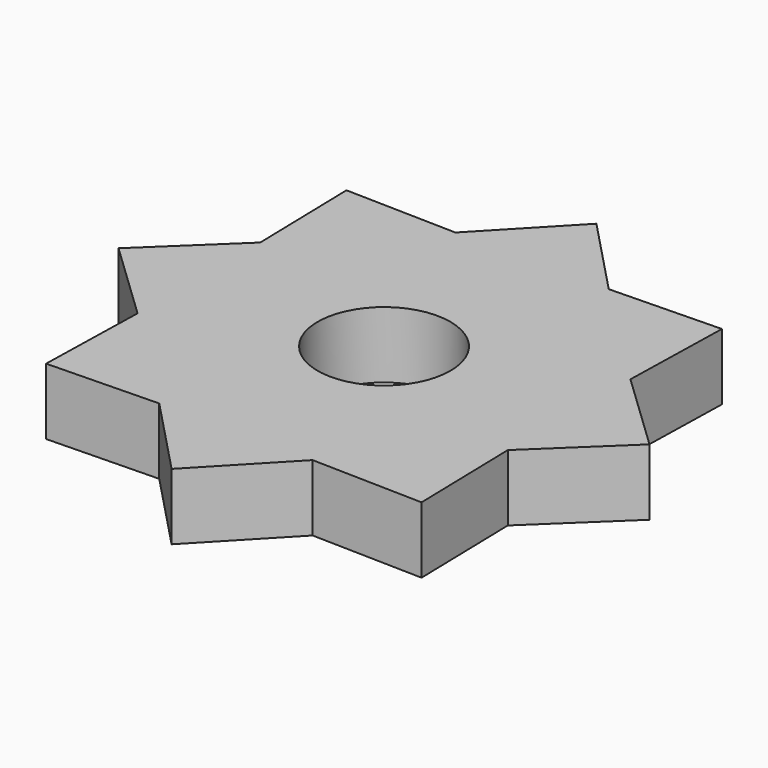
from build123d import *

# Parameters (mm, degrees)
F1_DEPTH = 5
F2_R     = 5
F3_DEPTH = 25


with BuildPart() as f1:
    # F0 (on Top) → F1 (new body)
    with BuildSketch(Plane.XY):
        with BuildLine():
            ThreePointArc((13.93824703, 5.5430379513), (14.7321706726, 2.8219049018), (15, 0))
            ThreePointArc((15, 0), (14.7321706726, -2.8219049018), (13.93824703, -5.5430379513))
            Line((13.93824703, -5.5430379513), (13.9437634587, -5.7756959351))
            Line((13.9437634587, -5.7756959351), (20, 0))
            Line((20, 0), (13.9437634587, 5.7756959351))
            Line((13.9437634587, 5.7756959351), (13.93824703, 5.5430379513))
        make_face()
        with BuildLine():
            ThreePointArc((13.7753487165, 5.9363092691), (13.8581929877, 5.7402514855), (13.93824703, 5.5430379513))
            Line((13.93824703, 5.5430379513), (13.9437634587, 5.7756959351))
            Line((13.9437634587, 5.7756959351), (13.7753487165, 5.9363092691))
        make_face()
        with BuildLine():
            Line((13.9437634587, -5.7756959351), (13.93824703, -5.5430379513))
            ThreePointArc((13.93824703, -5.5430379513), (13.8581929877, -5.7402514855), (13.7753487165, -5.9363092691))
            Line((13.7753487165, -5.9363092691), (13.9437634587, -5.7756959351))
        make_face()
        with BuildLine():
            ThreePointArc((5.9363092691, 13.7753487165), (10.6066017178, 10.6066017178), (13.7753487165, 5.9363092691))
            Line((13.7753487165, 5.9363092691), (13.9437634587, 5.7756959351))
            Line((13.9437634587, 5.7756959351), (14.1421356237, 14.1421356237))
            Line((14.1421356237, 14.1421356237), (5.7756959351, 13.9437634587))
            Line((5.7756959351, 13.9437634587), (5.9363092691, 13.7753487165))
        make_face()
        with BuildLine():
            Line((13.9437634587, -5.7756959351), (13.7753487165, -5.9363092691))
            ThreePointArc((13.7753487165, -5.9363092691), (10.6066017178, -10.6066017178), (5.9363092691, -13.7753487165))
            Line((5.9363092691, -13.7753487165), (5.7756959351, -13.9437634587))
            Line((5.7756959351, -13.9437634587), (14.1421356237, -14.1421356237))
            Line((14.1421356237, -14.1421356237), (13.9437634587, -5.7756959351))
        make_face()
        with BuildLine():
            ThreePointArc((5.5430379513, 13.93824703), (5.7402514855, 13.8581929877), (5.9363092691, 13.7753487165))
            Line((5.9363092691, 13.7753487165), (5.7756959351, 13.9437634587))
            Line((5.7756959351, 13.9437634587), (5.5430379513, 13.93824703))
        make_face()
        with BuildLine():
            Line((5.7756959351, -13.9437634587), (5.9363092691, -13.7753487165))
            ThreePointArc((5.9363092691, -13.7753487165), (5.7402514855, -13.8581929877), (5.5430379513, -13.93824703))
            Line((5.5430379513, -13.93824703), (5.7756959351, -13.9437634587))
        make_face()
        with BuildLine():
            ThreePointArc((0, 15), (2.8219049018, 14.7321706726), (5.5430379513, 13.93824703))
            Line((5.5430379513, 13.93824703), (5.7756959351, 13.9437634587))
            Line((5.7756959351, 13.9437634587), (0, 20))
            Line((0, 20), (0, 15))
        make_face()
        with BuildLine():
            Line((5.7756959351, -13.9437634587), (5.5430379513, -13.93824703))
            ThreePointArc((5.5430379513, -13.93824703), (0, -15), (-5.5430379513, -13.93824703))
            Line((-5.5430379513, -13.93824703), (-5.7756959351, -13.9437634587))
            Line((-5.7756959351, -13.9437634587), (0, -20))
            Line((0, -20), (5.7756959351, -13.9437634587))
        make_face()
        with BuildLine():
            ThreePointArc((-5.5430379513, 13.93824703), (-2.8219049018, 14.7321706726), (0, 15))
            Line((0, 15), (0, 20))
            Line((0, 20), (-5.7756959351, 13.9437634587))
            Line((-5.7756959351, 13.9437634587), (-5.5430379513, 13.93824703))
        make_face()
        with BuildLine():
            Line((-5.7756959351, -13.9437634587), (-5.5430379513, -13.93824703))
            ThreePointArc((-5.5430379513, -13.93824703), (-5.7402514855, -13.8581929877), (-5.9363092691, -13.7753487165))
            Line((-5.9363092691, -13.7753487165), (-5.7756959351, -13.9437634587))
        make_face()
        with BuildLine():
            ThreePointArc((-5.9363092691, 13.7753487165), (-5.7402514855, 13.8581929877), (-5.5430379513, 13.93824703))
            Line((-5.5430379513, 13.93824703), (-5.7756959351, 13.9437634587))
            Line((-5.7756959351, 13.9437634587), (-5.9363092691, 13.7753487165))
        make_face()
        with BuildLine():
            Line((-5.9363092691, 13.7753487165), (-5.7756959351, 13.9437634587))
            Line((-5.7756959351, 13.9437634587), (-14.1421356237, 14.1421356237))
            Line((-14.1421356237, 14.1421356237), (-13.9437634587, 5.7756959351))
            Line((-13.9437634587, 5.7756959351), (-13.7753487165, 5.9363092691))
            ThreePointArc((-13.7753487165, 5.9363092691), (-10.6066017178, 10.6066017178), (-5.9363092691, 13.7753487165))
        make_face()
        with BuildLine():
            Line((-5.7756959351, -13.9437634587), (-5.9363092691, -13.7753487165))
            ThreePointArc((-5.9363092691, -13.7753487165), (-10.6066017178, -10.6066017178), (-13.7753487165, -5.9363092691))
            Line((-13.7753487165, -5.9363092691), (-13.9437634587, -5.7756959351))
            Line((-13.9437634587, -5.7756959351), (-14.1421356237, -14.1421356237))
            Line((-14.1421356237, -14.1421356237), (-5.7756959351, -13.9437634587))
        make_face()
        with BuildLine():
            Line((-13.9437634587, -5.7756959351), (-13.7753487165, -5.9363092691))
            ThreePointArc((-13.7753487165, -5.9363092691), (-13.8581929877, -5.7402514855), (-13.93824703, -5.5430379513))
            Line((-13.93824703, -5.5430379513), (-13.9437634587, -5.7756959351))
        make_face()
        with BuildLine():
            ThreePointArc((-13.93824703, 5.5430379513), (-13.8581929877, 5.7402514855), (-13.7753487165, 5.9363092691))
            Line((-13.7753487165, 5.9363092691), (-13.9437634587, 5.7756959351))
            Line((-13.9437634587, 5.7756959351), (-13.93824703, 5.5430379513))
        make_face()
        with BuildLine():
            Line((-13.93824703, 5.5430379513), (-13.9437634587, 5.7756959351))
            Line((-13.9437634587, 5.7756959351), (-20, 0))
            Line((-20, 0), (-13.9437634587, -5.7756959351))
            Line((-13.9437634587, -5.7756959351), (-13.93824703, -5.5430379513))
            ThreePointArc((-13.93824703, -5.5430379513), (-15, 0), (-13.93824703, 5.5430379513))
        make_face()
        with BuildLine():
            ThreePointArc((13.93824703, -5.5430379513), (14.7321706726, -2.8219049018), (15, 0))
            ThreePointArc((15, 0), (14.7321706726, 2.8219049018), (13.93824703, 5.5430379513))
            ThreePointArc((13.93824703, 5.5430379513), (13.8581929877, 5.7402514855), (13.7753487165, 5.9363092691))
            ThreePointArc((13.7753487165, 5.9363092691), (10.6066017178, 10.6066017178), (5.9363092691, 13.7753487165))
            ThreePointArc((5.9363092691, 13.7753487165), (5.7402514855, 13.8581929877), (5.5430379513, 13.93824703))
            ThreePointArc((5.5430379513, 13.93824703), (2.8219049018, 14.7321706726), (0, 15))
            ThreePointArc((0, 15), (-2.8219049018, 14.7321706726), (-5.5430379513, 13.93824703))
            ThreePointArc((-5.5430379513, 13.93824703), (-5.7402514855, 13.8581929877), (-5.9363092691, 13.7753487165))
            ThreePointArc((-5.9363092691, 13.7753487165), (-10.6066017178, 10.6066017178), (-13.7753487165, 5.9363092691))
            ThreePointArc((-13.7753487165, 5.9363092691), (-13.8581929877, 5.7402514855), (-13.93824703, 5.5430379513))
            ThreePointArc((-13.93824703, 5.5430379513), (-15, 0), (-13.93824703, -5.5430379513))
            ThreePointArc((-13.93824703, -5.5430379513), (-13.8581929877, -5.7402514855), (-13.7753487165, -5.9363092691))
            ThreePointArc((-13.7753487165, -5.9363092691), (-10.6066017178, -10.6066017178), (-5.9363092691, -13.7753487165))
            ThreePointArc((-5.9363092691, -13.7753487165), (-5.7402514855, -13.8581929877), (-5.5430379513, -13.93824703))
            ThreePointArc((-5.5430379513, -13.93824703), (0, -15), (5.5430379513, -13.93824703))
            ThreePointArc((5.5430379513, -13.93824703), (5.7402514855, -13.8581929877), (5.9363092691, -13.7753487165))
            ThreePointArc((5.9363092691, -13.7753487165), (10.6066017178, -10.6066017178), (13.7753487165, -5.9363092691))
            ThreePointArc((13.7753487165, -5.9363092691), (13.8581929877, -5.7402514855), (13.93824703, -5.5430379513))
        make_face()
    extrude(amount=F1_DEPTH)

    # F2 (on face) → F3 (cut)
    with BuildSketch(Plane.XY.offset(5)):
        Circle(F2_R)
    extrude(amount=-F3_DEPTH, mode=Mode.SUBTRACT)


solid = f1.part
